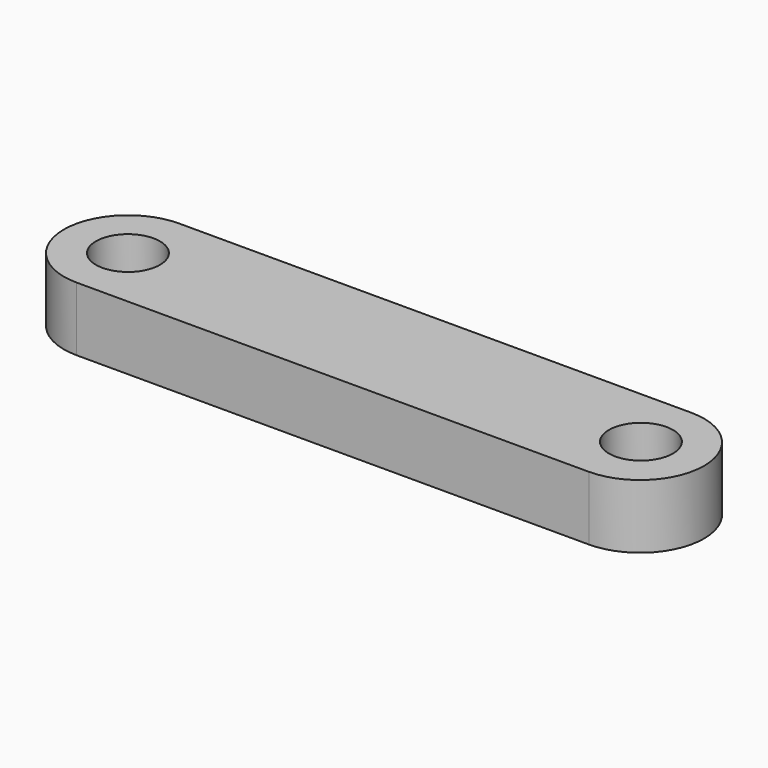
from build123d import *

# Parameters (mm, degrees)
F1_DEPTH = 10
F2_R     = 5
F3_DEPTH = 10.001


with BuildPart() as f1:
    # F0 (on Top) → F1 (new body)
    with BuildSketch(Plane.XY):
        with BuildLine():
            Line((46.325598, 9.825346), (-33.674402, 9.825346))
            ThreePointArc((-33.674402, 9.825346), (-43.674402, -0.174654), (-33.674402, -10.174654))
            Line((-33.674402, -10.174654), (46.325598, -10.174654))
            ThreePointArc((46.325598, -10.174654), (56.325598, -0.174654), (46.325598, 9.825346))
        make_face()
    extrude(amount=F1_DEPTH)

    # F2 (on face) → F3 (cut, through all)
    with BuildSketch(Plane.XY.offset(10)):
        with Locations((-33.674402, -0.174654)):
            Circle(F2_R)
        with Locations((46.325598, 0)):
            Circle(F2_R)
    extrude(amount=-F3_DEPTH, mode=Mode.SUBTRACT)


solid = f1.part
